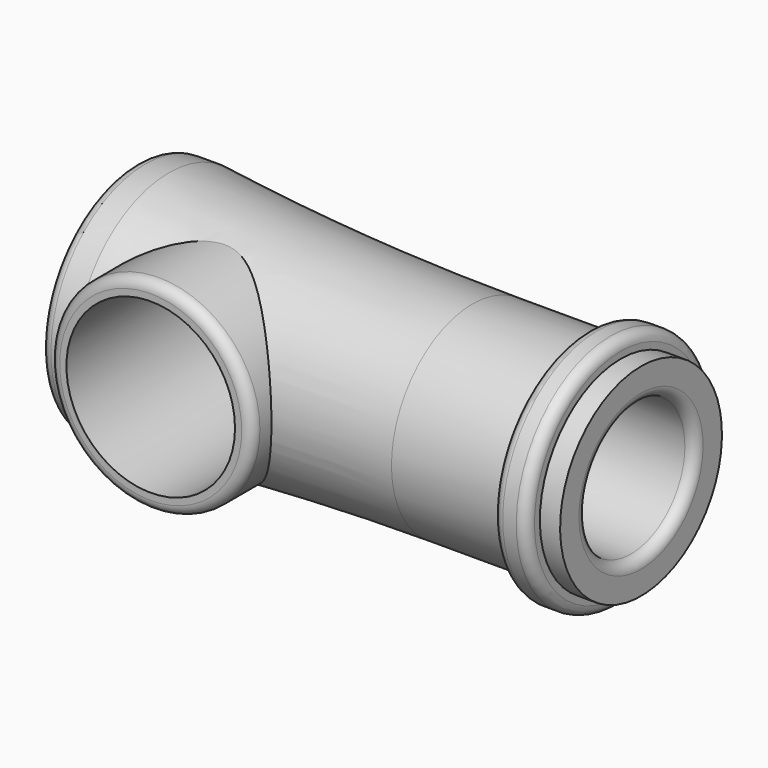
from build123d import *

# Parameters (mm, degrees)
F2_R     = 15
F3_DEPTH = 19
F4_R     = 12.5
F5_DEPTH = 25
F6_R     = 1.5


with BuildPart() as f1:
    # F0 (on Front) → F1 (revolve)
    with BuildSketch(Plane.XZ):
        with BuildLine():
            Line((0, 17.5), (0, 0))
            Line((0, 0), (60, 0))
            Line((60, 0), (60, 10))
            Line((60, 10), (75, 10))
            Line((75, 10), (75, 15))
            Line((75, 15), (72, 15))
            Line((72, 15), (72, 17.5))
            Line((72, 17.5), (67, 17.5))
            Line((67, 17.5), (67, 15))
            Line((67, 15), (50, 15))
            ThreePointArc((50, 15), (27.465305, 15.625482), (5, 17.5))
            Line((5, 17.5), (0, 17.5))
        make_face()
    revolve(axis=Axis((30, 0, 0), (-1, 0, 0)))

    # F2 (on Front) → F3 (join)
    with BuildSketch(Plane.XZ):
        with Locations((17.5, 0)):
            Circle(F2_R)
    extrude(amount=F3_DEPTH)

    # F4 (on face) → F5 (cut)
    with BuildSketch(Plane.XZ.offset(19)):
        with Locations((17.5, 0)):
            Circle(F4_R)
    extrude(amount=-F5_DEPTH, mode=Mode.SUBTRACT)

    # F6
    f6_edges = [f1.edges().sort_by_distance(p)[0] for p in [
        (2.5, -19, 0),
        (72, 0, -17.5),
        (75, 0, -10),
        (67, 0, -17.5),
        (0, 0, -17.5),
    ]]
    fillet(f6_edges, radius=F6_R)


solid = f1.part
